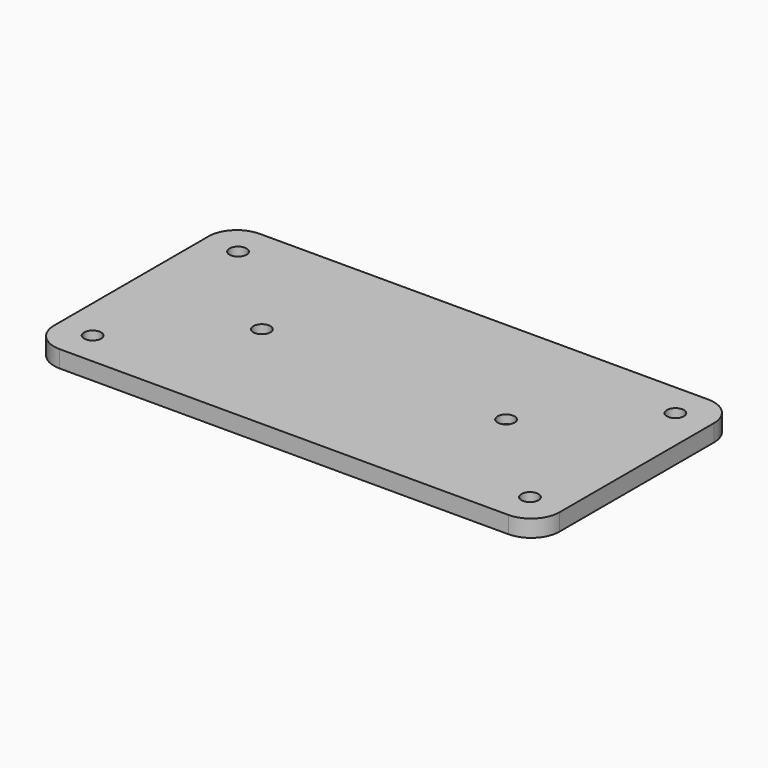
from build123d import *

# Parameters (mm, degrees)
F0_W      = 89
F0_H      = 44
F0_W_2    = 85
F0_H_2    = 40
F1_DEPTH  = 3
F2_R      = 5
F3_W      = 83
F3_H      = 38
F4_DEPTH  = 1
F5_R      = 2
F6_R      = 1.5
F7_DEPTH  = 25
F8_R      = 2.75
F9_DEPTH  = 2.5
F10_R     = 1.5
F11_DEPTH = 25


with BuildPart() as f1:
    # F0 (on Top) → F1 (new body)
    with BuildSketch(Plane.XY):
        with Locations((0.5476979613, -10.7853626366)):
            Rectangle(F0_W, F0_H)
        with Locations((0.5476979613, -10.7853626366)):
            Rectangle(F0_W_2, F0_H_2, mode=Mode.SUBTRACT)
        with Locations((0.5476979613, -10.7853626366)):
            Rectangle(F0_W_2, F0_H_2)
    extrude(amount=F1_DEPTH)

    # F2
    f2_edges = [f1.edges().sort_by_distance(p)[0] for p in [
        (-43.952302, 11.214637, 1.5),
        (45.047698, 11.214637, 1.5),
        (45.047698, -32.785363, 1.5),
        (-43.952302, -32.785363, 1.5),
    ]]
    fillet(f2_edges, radius=F2_R)

    # F3 (on face) → F4 (join)
    with BuildSketch(Plane(origin=(0, 0, 0), x_dir=(1, 0, 0), z_dir=(0, 0, -1))):
        with Locations((0.5476979613, 10.7853626366)):
            Rectangle(F3_W, F3_H)
    extrude(amount=F4_DEPTH)

    # F5
    f5_edges = [f1.edges().sort_by_distance(p)[0] for p in [
        (-40.952302, -29.785363, -0.5),
        (-40.952302, 8.214637, -0.5),
        (42.047698, 8.214637, -0.5),
        (42.047698, -29.785363, -0.5),
    ]]
    fillet(f5_edges, radius=F5_R)

    # F6 (on face) → F7 (cut)
    with BuildSketch(Plane(origin=(0, 0, -1), x_dir=(1, 0, 0), z_dir=(0, 0, -1))):
        with Locations((22.0476979613, 10.7853626366)):
            Circle(F6_R)
        with BuildLine():
            ThreePointArc((-22.4523020387, 10.7853626366), (-20.9523020387, 9.2853626366), (-19.4523020387, 10.7853626366))
            ThreePointArc((-19.4523020387, 10.7853626366), (-20.9523020387, 12.2853626366), (-22.4523020387, 10.7853626366))
        make_face()
    extrude(amount=-F7_DEPTH, mode=Mode.SUBTRACT)

    # F8 (on face) → F9 (cut)
    with BuildSketch(Plane(origin=(0, 0, -1), x_dir=(1, 0, 0), z_dir=(0, 0, -1))):
        with Locations((-20.9523020387, 10.7853626366)):
            Circle(F8_R)
        with Locations((22.0476979613, 10.7853626366)):
            Circle(F8_R)
    extrude(amount=-F9_DEPTH, mode=Mode.SUBTRACT)

    # F10 (on face) → F11 (cut)
    with BuildSketch(Plane.XY.offset(3)):
        with BuildLine():
            ThreePointArc((-36.4523020387, -26.7853626366), (-37.9523020387, -25.2853626366), (-39.4523020387, -26.7853626366))
            Line((-39.4523020387, -26.7853626366), (-37.9523020387, -26.7853626366))
            Line((-37.9523020387, -26.7853626366), (-37.9523020387, -28.2853626366))
            ThreePointArc((-37.9523020387, -28.2853626366), (-36.8916418669, -27.8460228084), (-36.4523020387, -26.7853626366))
        make_face()
        with BuildLine():
            Line((-37.9523020387, -26.7853626366), (-39.4523020387, -26.7853626366))
            ThreePointArc((-39.4523020387, -26.7853626366), (-39.0129622104, -27.8460228084), (-37.9523020387, -28.2853626366))
            Line((-37.9523020387, -28.2853626366), (-37.9523020387, -26.7853626366))
        make_face()
        with Locations((-37.9523020387, 5.2146373634)):
            Circle(F10_R)
        with Locations((39.0476979613, -26.7853626366)):
            Circle(F10_R)
        with Locations((39.0476979613, 5.2146373634)):
            Circle(F10_R)
    extrude(amount=-F11_DEPTH, mode=Mode.SUBTRACT)


solid = f1.part
